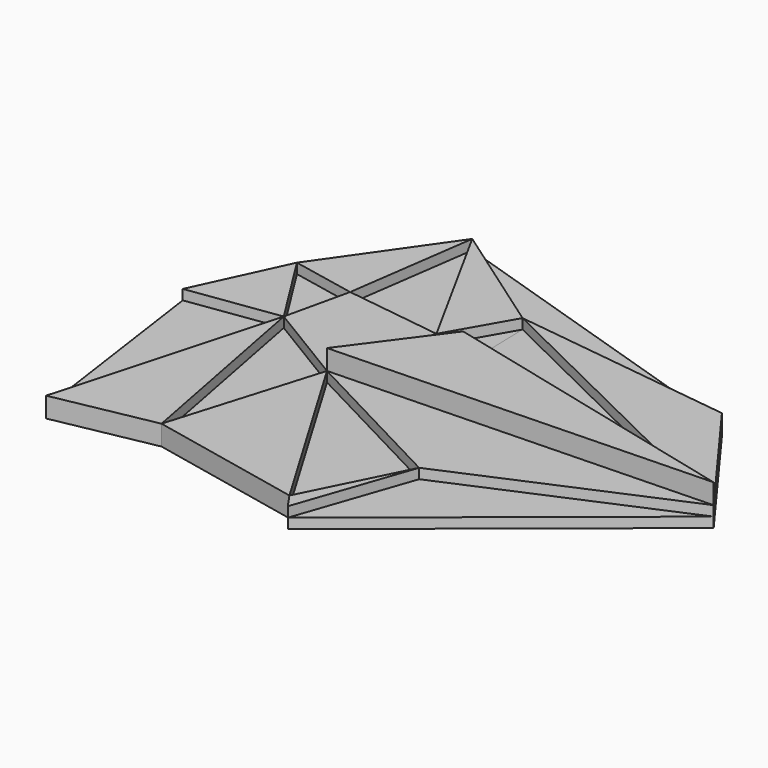
from build123d import *

# Parameters (mm, degrees)
F1_DEPTH = 25.4
F2_DEPTH = 50.8
F3_DEPTH = 25.4
F4_DEPTH = 101.6


with BuildPart() as f1:
    # F0 (on Top) → F1 (new body)
    with BuildSketch(Plane.XY):
        Polygon((932.056904, -810.256481), (1584.609509, -282.339096), (1031.59523, -520.306706), align=None)
        Polygon((1031.59523, -520.306706), (631.548345, -310.886502), (905.879974, -772.374153), align=None)
        Polygon((631.548345, -310.886502), (419.873297, -182.713658), (517.546415, -690.522909), align=None)
        Polygon((419.873297, -182.713658), (190.82123, -215.188652), (265.107928, -739.146292), align=None)
        Polygon((456.848562, -19.487321), (296.492636, 12.987666), (419.873297, -182.713658), align=None)
        Polygon((796.661258, -87.764859), (700.958192, -52.426025), (631.548345, -310.886502), align=None)
        Polygon((1584.609509, -282.339096), (791.635275, 105.997652), (796.661258, -87.764859), align=None)
        Polygon((1351.912498, 34.646034), (503.059387, 308.084488), (791.635275, 105.997652), align=None)
        Polygon((503.059387, 308.084488), (456.848562, -19.487321), (700.958192, -52.426025), align=None)
    extrude(amount=F1_DEPTH)


with BuildPart() as f2:
    # F0 (on Top) → F2 (new body)
    with BuildSketch(Plane.XY):
        Polygon((503.059387, 308.084488), (296.492636, 12.987666), (456.848562, -19.487321), align=None)
        Polygon((419.873297, -182.713658), (296.492636, 12.987666), (190.82123, -215.188652), align=None)
        Polygon((456.848562, -19.487321), (419.873297, -182.713658), (700.958192, -52.426025), align=None)
        Polygon((791.635275, 105.997652), (503.059387, 308.084488), (700.958192, -52.426025), align=None)
        Polygon((1351.912498, 34.646034), (791.635275, 105.997652), (1584.609509, -282.339096), align=None)
        Polygon((1584.609509, -282.339096), (631.548345, -310.886502), (1031.59523, -520.306706), align=None)
        Polygon((1031.59523, -520.306706), (905.879974, -772.374153), (932.056904, -810.256481), align=None)
        Polygon((517.546415, -690.522909), (419.873297, -182.713658), (265.107928, -739.146292), align=None)
        Polygon((905.879974, -772.374153), (631.548345, -310.886502), (517.546415, -690.522909), align=None)
        Polygon((700.958192, -52.426025), (419.873297, -182.713658), (631.548345, -310.886502), align=None)
    extrude(amount=F2_DEPTH)


with BuildPart() as f3:
    # F0 (on Top) → F3 (new body)
    with BuildSketch(Plane.XY):
        Polygon((791.635275, 105.997652), (700.958192, -52.426025), (796.661258, -87.764859), align=None)
        Polygon((700.958192, -52.426025), (419.873297, -182.713658), (631.548345, -310.886502), align=None)
    extrude(amount=F3_DEPTH)


with BuildPart() as f4:
    # F0 (on Top) → F4 (new body)
    with BuildSketch(Plane.XY):
        Polygon((796.661258, -87.764859), (631.548345, -310.886502), (1584.609509, -282.339096), align=None)
    extrude(amount=F4_DEPTH)


solid = Compound([f1.part, f2.part, f3.part, f4.part])
